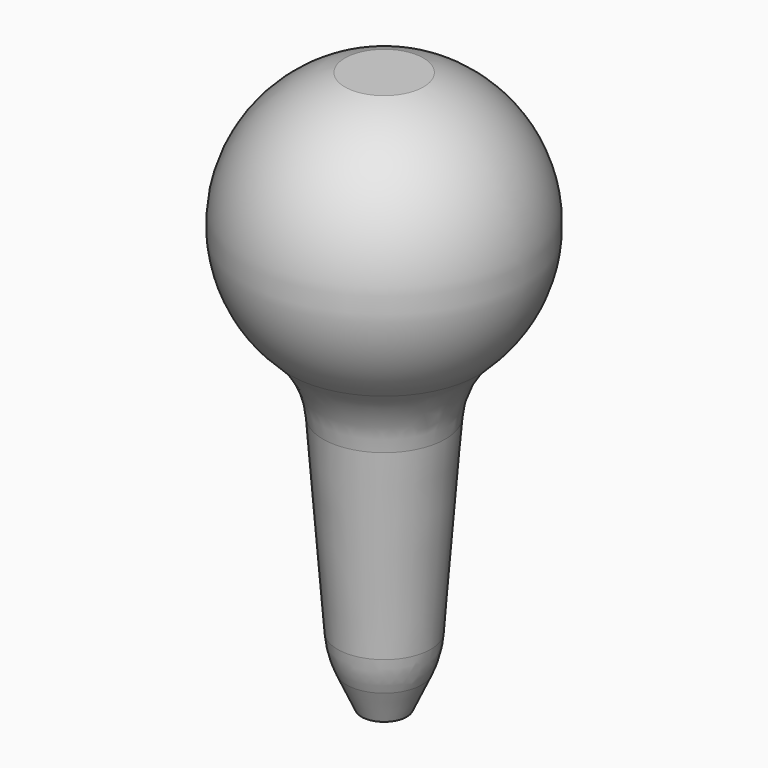
from build123d import *

# Parameters (mm, degrees)
F2_R = 0.15
F3_R = 20
F4_R = 5


with BuildPart() as f1:
    # F0 (on Front) → F1 (revolve)
    with BuildSketch(Plane.XZ):
        with BuildLine():
            ThreePointArc((10, 65.393271), (24.622145, 42.893271), (10, 20.393271))
            Line((10, 20.393271), (5.933387, -32.472701))
            Line((5.933387, -32.472701), (4.010829, -42.867689))
            Line((4.010829, -42.867689), (8.978997, -31.994988))
            Line((8.978997, -31.994988), (12.859141, 18.446894))
            ThreePointArc((12.859141, 18.446894), (27.486586, 45.626485), (7.793129, 69.393271))
            Line((7.793129, 69.393271), (0, 69.393271))
            Line((0, 69.393271), (0, 65.393271))
            Line((0, 65.393271), (10, 65.393271))
        make_face()
    revolve(axis=Axis((0, 0, 67.393271), (0, 0, -1)))

    # F2
    f2_edges = [f1.edges().sort_by_distance(p)[0] for p in [
        (-4.010829, 0, -42.867689),
    ]]
    fillet(f2_edges, radius=F2_R)

    # F3
    f3_edges = [f1.edges().sort_by_distance(p)[0] for p in [
        (-8.978997, 0, -31.994988),
        (-12.859141, 0, 18.446894),
    ]]
    fillet(f3_edges, radius=F3_R)

    # F4
    f4_edges = [f1.edges().sort_by_distance(p)[0] for p in [
        (-10, 0, 65.393271),
    ]]
    fillet(f4_edges, radius=F4_R)


solid = f1.part
